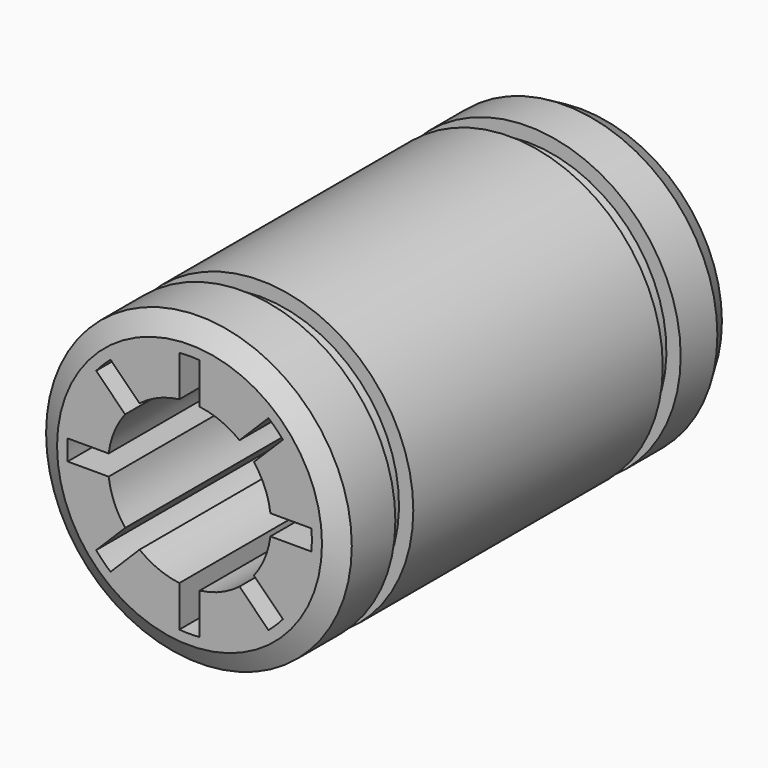
from build123d import *

# Parameters (mm, degrees)
F0_R       = 7.5
F0_R_2     = 4
F1_DEPTH   = 12
F3_DEPTH   = 24.001
F4_W       = 1.1
F4_H       = 0.7
F6_SIZE2   = 0.5773502692
F6_SIZE    = 1
F6_2_SIZE2 = 0.5773502692
F6_2_SIZE  = 1


with BuildPart() as f1:
    # F0 (on Front) → F1 (new body, symmetric)
    with BuildSketch(Plane.XZ):
        Circle(F0_R)
        Circle(F0_R_2, mode=Mode.SUBTRACT)
    extrude(amount=F1_DEPTH, both=True)

    # F2 (on face) → F3 (cut, through all)
    with BuildSketch(Plane.XZ.offset(12)):
        with BuildLine():
            Line((0.5, 3.9686269666), (0.5, 5.9791303716))
            ThreePointArc((0.5, 5.9791303716), (0, 6), (-0.5, 5.9791303716))
            Line((-0.5, 5.9791303716), (-0.5, 3.9686269666))
            ThreePointArc((-0.5, 3.9686269666), (0, 4), (0.5, 3.9686269666))
        make_face()
        with BuildLine():
            Line((3.1597964307, 2.4526896495), (4.5814370219, 3.8743302407))
            ThreePointArc((4.5814370219, 3.8743302407), (4.2426406871, 4.2426406871), (3.8743302407, 4.5814370219))
            Line((3.8743302407, 4.5814370219), (2.4526896495, 3.1597964307))
            ThreePointArc((2.4526896495, 3.1597964307), (2.8284271247, 2.8284271247), (3.1597964307, 2.4526896495))
        make_face()
        with BuildLine():
            ThreePointArc((5.9791303716, -0.5), (5.9947803225, -0.2502176759), (6, 0))
            ThreePointArc((6, 0), (5.9947803225, 0.2502176759), (5.9791303716, 0.5))
            Line((5.9791303716, 0.5), (3.9686269666, 0.5))
            ThreePointArc((3.9686269666, 0.5), (3.9921490369, 0.2504916502), (4, 0))
            ThreePointArc((4, 0), (3.9921490369, -0.2504916502), (3.9686269666, -0.5))
            Line((3.9686269666, -0.5), (5.9791303716, -0.5))
        make_face()
        with BuildLine():
            ThreePointArc((3.8743302407, -4.5814370219), (4.2426406871, -4.2426406871), (4.5814370219, -3.8743302407))
            Line((4.5814370219, -3.8743302407), (3.1597964307, -2.4526896495))
            ThreePointArc((3.1597964307, -2.4526896495), (2.8284271247, -2.8284271247), (2.4526896495, -3.1597964307))
            Line((2.4526896495, -3.1597964307), (3.8743302407, -4.5814370219))
        make_face()
        with BuildLine():
            ThreePointArc((-0.5, -5.9791303716), (0, -6), (0.5, -5.9791303716))
            Line((0.5, -5.9791303716), (0.5, -3.9686269666))
            ThreePointArc((0.5, -3.9686269666), (0, -4), (-0.5, -3.9686269666))
            Line((-0.5, -3.9686269666), (-0.5, -5.9791303716))
        make_face()
        with BuildLine():
            ThreePointArc((-4.5814370219, -3.8743302407), (-4.2426406871, -4.2426406871), (-3.8743302407, -4.5814370219))
            Line((-3.8743302407, -4.5814370219), (-2.4526896495, -3.1597964307))
            ThreePointArc((-2.4526896495, -3.1597964307), (-2.8284271247, -2.8284271247), (-3.1597964307, -2.4526896495))
            Line((-3.1597964307, -2.4526896495), (-4.5814370219, -3.8743302407))
        make_face()
        with BuildLine():
            Line((-3.9686269666, 0.5), (-5.9791303716, 0.5))
            ThreePointArc((-5.9791303716, 0.5), (-6, 0), (-5.9791303716, -0.5))
            Line((-5.9791303716, -0.5), (-3.9686269666, -0.5))
            ThreePointArc((-3.9686269666, -0.5), (-4, 0), (-3.9686269666, 0.5))
        make_face()
        with BuildLine():
            Line((-2.4526896495, 3.1597964307), (-3.8743302407, 4.5814370219))
            ThreePointArc((-3.8743302407, 4.5814370219), (-4.2426406871, 4.2426406871), (-4.5814370219, 3.8743302407))
            Line((-4.5814370219, 3.8743302407), (-3.1597964307, 2.4526896495))
            ThreePointArc((-3.1597964307, 2.4526896495), (-2.8284271247, 2.8284271247), (-2.4526896495, 3.1597964307))
        make_face()
    extrude(amount=-F3_DEPTH, mode=Mode.SUBTRACT)

    # F4 (on Right) → F5 (revolve, cut)
    with BuildSketch(Plane.YZ):
        with Locations((-8.2, 7.15)):
            Rectangle(F4_W, F4_H)
        with Locations((8.2, 7.15)):
            Rectangle(F4_W, F4_H)
    revolve(axis=Axis((0, -12, 0), (0, -1, 0)), mode=Mode.SUBTRACT)

    # F6
    f6_edges = [f1.edges().sort_by_distance(p)[0] for p in [
        (-7.5, -12, 0),
    ]]
    f6_side = f1.faces().sort_by_distance((-7.287868, -12, 0))[0]
    chamfer(f6_edges, length=F6_SIZE, length2=F6_SIZE2, reference=f6_side)

    # F6#2
    f6_2_edges = [f1.edges().sort_by_distance(p)[0] for p in [
        (-7.5, 12, 0),
    ]]
    f6_2_side = f1.faces().sort_by_distance((-7.5, 10.375, 0))[0]
    chamfer(f6_2_edges, length=F6_2_SIZE, length2=F6_2_SIZE2, reference=f6_2_side)


solid = f1.part
